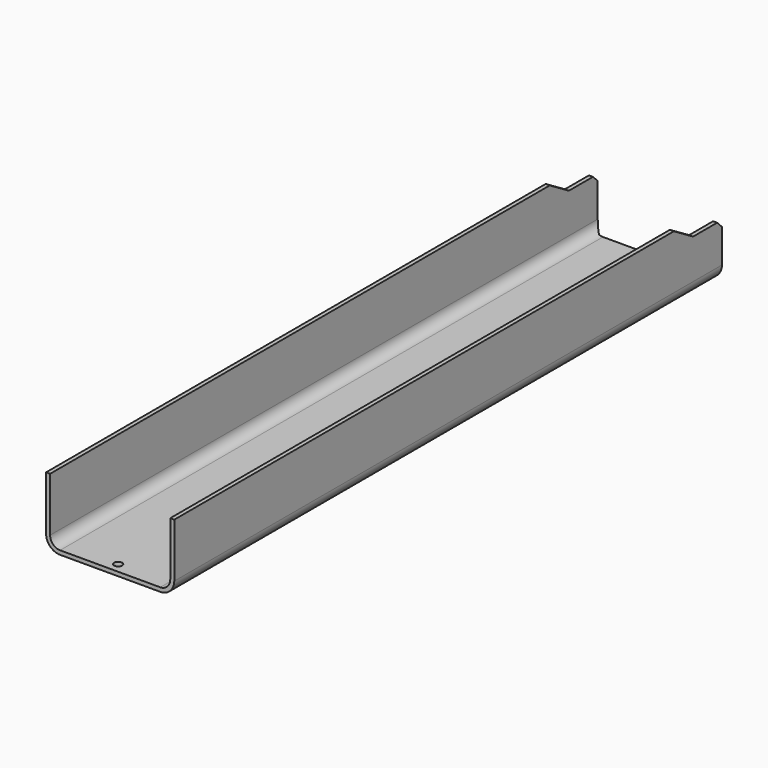
from build123d import *

# Parameters (mm, degrees)
F1_DEPTH      = 854.5
F2_R          = 25
F3_R          = 35
F5_DEPTH      = 320.001
F7_D          = 20
F9_DEPTH      = 30
F9_DEPTH_BACK = 10


with BuildPart() as f1:
    # F0 (on Front) → F1 (new body, symmetric)
    with BuildSketch(Plane.XZ):
        Polygon((-150, 170), (-160, 170), (-160, 0), (160, 0), (160, 170), (150, 170), (150, 10), (-150, 10), align=None)
    extrude(amount=F1_DEPTH, both=True)

    # F2
    f2_edges = [f1.edges().sort_by_distance(p)[0] for p in [
        (-150, 0, 10),
        (150, 0, 10),
    ]]
    fillet(f2_edges, radius=F2_R)

    # F3
    f3_edges = [f1.edges().sort_by_distance(p)[0] for p in [
        (160, 0, 0),
        (-160, 0, 0),
    ]]
    fillet(f3_edges, radius=F3_R)

    # F4 (on face) → F5 (cut, through all)
    with BuildSketch(Plane.YZ.offset(160)):
        Polygon((854.5, 170), (704.5, 170), (764.5, 134), (839.5, 134), (854.5, 119), align=None)
    extrude(amount=-F5_DEPTH, mode=Mode.SUBTRACT)

    # F7 (through all)
    with Locations(Plane.XY.offset(10)):
        with Locations((0, -829.5)):
            Hole(F7_D / 2)

    # F8 (on face) → F9 (cut, two sides)
    with BuildSketch(Plane.XY.offset(10)) as f9_sk:
        Polygon((-150, 854.5), (-135, 839.5), (135, 839.5), (150, 854.5), align=None)
    extrude(amount=F9_DEPTH, mode=Mode.SUBTRACT)
    extrude(f9_sk.sketch, amount=-F9_DEPTH_BACK, mode=Mode.SUBTRACT)


solid = f1.part
